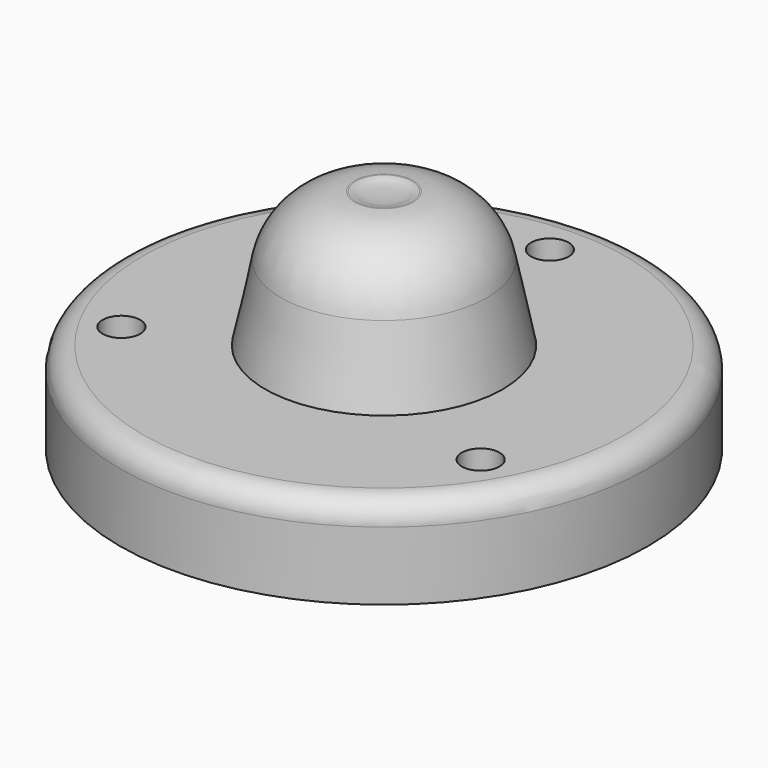
from build123d import *

# Parameters (mm, degrees)
F2_R     = 2.5
F3_DEPTH = 25
F4_R     = 5
F5_DEPTH = 29


with BuildPart() as f1:
    # F0 (on Front) → F1 (revolve)
    with BuildSketch(Plane.XZ):
        with BuildLine():
            Line((0, 29.563617), (0, 0))
            Line((0, 0), (35, 0))
            Line((35, 0), (35, 9.045376))
            ThreePointArc((35, 9.045376), (34.12132, 11.166697), (32, 12.045376))
            Line((32, 12.045376), (15.753854, 12.045376))
            Line((15.753854, 12.045376), (13.664301, 22.045376))
            ThreePointArc((13.664301, 22.045376), (10.182308, 27.760598), (3.875714, 30))
            Line((3.875714, 30), (3.702194, 30))
            add(Edge.make_bspline(
                [(3.702194, 30), (2.872247, 30.008527), (3.357668, 29.526608), (0, 29.563617)],
                knots=[0, 0, 0, 0, 3.727824, 3.727824, 3.727824, 3.727824], degree=3))
        make_face()
    revolve(axis=Axis((0, 0, 14.781808), (0, 0, 1)))

    # F2 (on face) → F3 (cut)
    with BuildSketch(Plane.XY.offset(12.045376)):
        with Locations((0, 27.485492)):
            Circle(F2_R)
        with Locations((23.803134, -13.742746)):
            Circle(F2_R)
        with Locations((-23.803134, -13.742746)):
            Circle(F2_R)
    extrude(amount=-F3_DEPTH, mode=Mode.SUBTRACT)

    # F4 (on face) → F5 (join)
    with BuildSketch(Plane(origin=(0, 0, 0), x_dir=(1, 0, 0), z_dir=(0, 0, -1))):
        Circle(F4_R)
    extrude(amount=-F5_DEPTH)


solid = f1.part
